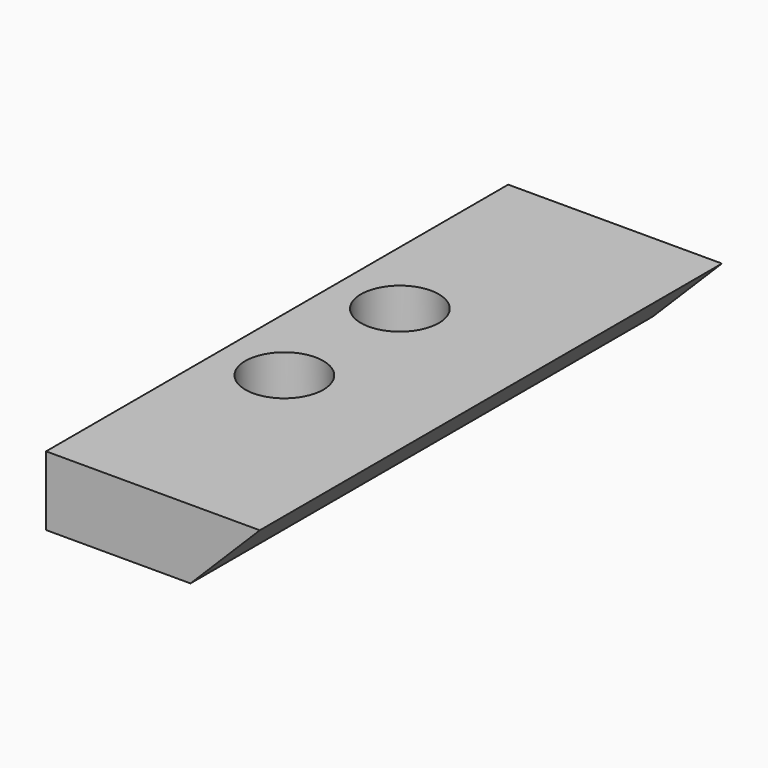
from build123d import *

# Parameters (mm, degrees)
CYLINDER1020_R     = 2.7
CYLINDER1020_DEPTH = 10
CYLINDER1018_R     = 1.7
CYLINDER1018_DEPTH = 10
PAD020_DEPTH       = 40


with BuildPart() as cylinder1015:
    # Cylinder1020 → Cylinder1020 (new body)
    with BuildSketch(Plane.XY.offset(10)):
        Circle(CYLINDER1020_R)
    extrude(amount=CYLINDER1020_DEPTH)


with BuildPart() as m3bolthead:
    # Cylinder1018 → Cylinder1018 (new body)
    with BuildSketch(Plane.XY):
        Circle(CYLINDER1018_R)
    extrude(amount=CYLINDER1018_DEPTH)

    # Fusion024: union Cylinder1015
    add(cylinder1015.part)


with BuildPart() as clone_of_m3bolthead002:
    # Clone034 base: copy of M3BoltHead
    add(m3bolthead.part)


with BuildPart() as clone_of_m3bolthead002_1:
    # Clone034 placement: moved
    add(clone_of_m3bolthead002.part.moved(Location((4.5, -15, -8.2))))


with BuildPart() as fusion041:
    # Clone033 base: copy of M3BoltHead
    add(m3bolthead.part)


with BuildPart() as fusion041_1:
    # Clone033 placement: moved
    add(fusion041.part.moved(Location((4.5, -25, -8.2))))

    # Fusion041: union Clone of M3BoltHead002
    add(clone_of_m3bolthead002_1.part)


with BuildPart() as obj1:
    # Sketch021 → Pad020 (new body)
    with BuildSketch(Plane.XZ):
        Polygon((0, 0), (0, 4.8), (14.8, 4.8), (10, 0), align=None)
    extrude(amount=PAD020_DEPTH)

    # Cut050: cut Fusion041
    add(fusion041_1.part, mode=Mode.SUBTRACT)


solid = obj1.part
